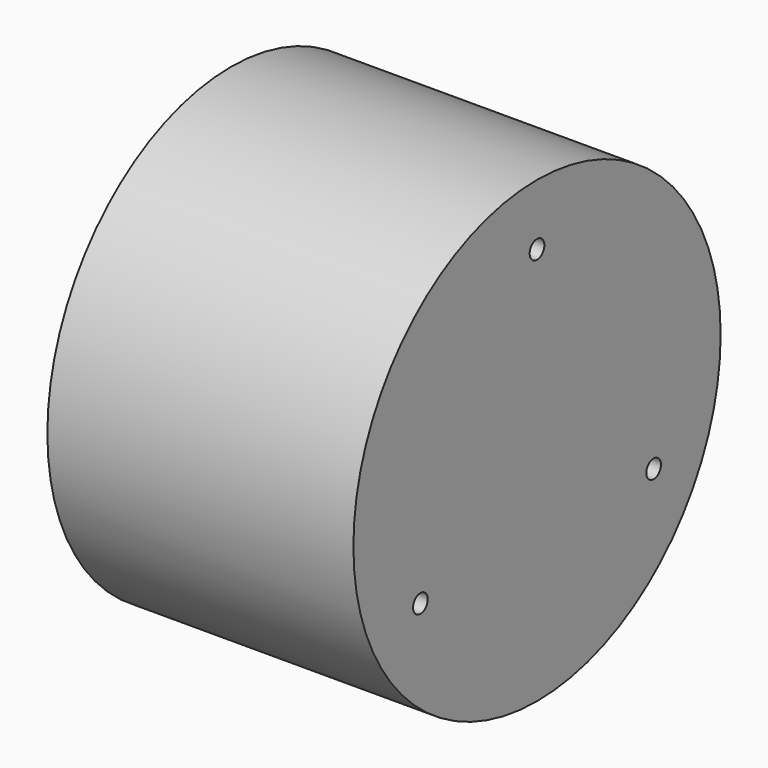
from build123d import *

# Parameters (mm, degrees)
F0_W     = 100
F0_H     = 75
F2_R     = 3
F3_DEPTH = 25


with BuildPart() as f1:
    # F0 (on Front) → F1 (revolve)
    with BuildSketch(Plane.XZ):
        with Locations((-50, -37.5)):
            Rectangle(F0_W, F0_H)
    revolve(axis=Axis((-50, 0, 0), (-1, 0, 0)))

    # F2 (on Right) → F3 (cut)
    with BuildSketch(Plane.YZ):
        with Locations((0, 55)):
            Circle(F2_R)
        with Locations((-47.631397, -27.5)):
            Circle(F2_R)
        with Locations((47.631397, -27.5)):
            Circle(F2_R)
    extrude(amount=-F3_DEPTH, mode=Mode.SUBTRACT)


solid = f1.part
